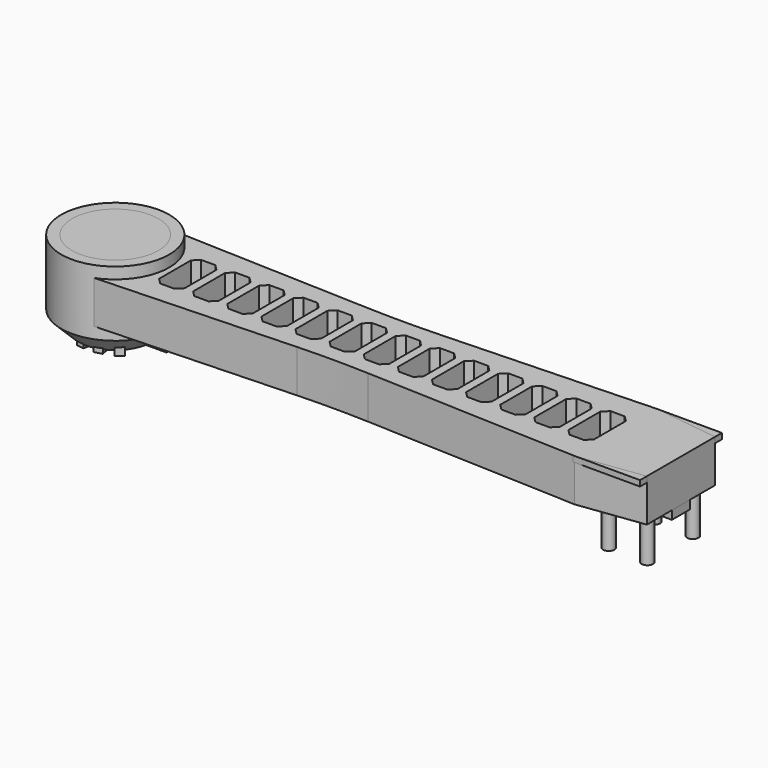
from build123d import *

# Parameters (mm, degrees)
CYLINDER_R          = 19
CYLINDER_DEPTH      = 29
CHAMFER_SIZE        = 6
CYLINDER001_R       = 15.2
CYLINDER001_DEPTH   = 22
BOX001_W            = 23.5
BOX001_H            = 36
BOX001_DEPTH        = 2
CYLINDER002_R       = 5
CYLINDER002_DEPTH   = 10
PAD003_DEPTH        = 40
BOX002_W            = 199
BOX002_H            = 8
BOX002_DEPTH        = 8.5
SKETCH002_R         = 3.000774
SKETCH002_R_2       = 3
PAD_DEPTH           = 2
PAD002_DEPTH        = 10
SKETCH001_R         = 1.502004
SKETCH001_R_2       = 1.451029
PAD001_DEPTH        = 10
SKETCH005_R         = 2
PAD005_DEPTH        = 30
CYLINDER003_R       = 1.5
CYLINDER003_DEPTH   = 10
PAD004_DEPTH        = 15
POCKET_DEPTH        = 8
LINEARPATTERN_COUNT = 13
LINEARPATTERN_PITCH = 12


with BuildPart() as chamfer_body:
    # Cylinder → Cylinder (new body)
    with BuildSketch(Plane(origin=(0, 18, -10), x_dir=(1, 0, 0), z_dir=(0, 0, 1))):
        Circle(CYLINDER_R)
    extrude(amount=CYLINDER_DEPTH)

    # Chamfer
    chamfer_edges = [chamfer_body.edges().sort_by_distance(p)[0] for p in [
        (-19, 18, -10),
    ]]
    chamfer(chamfer_edges, length=CHAMFER_SIZE)


with BuildPart() as cylinder001:
    # Cylinder001 → Cylinder001 (new body)
    with BuildSketch(Plane(origin=(0, 18, -3), x_dir=(1, 0, 0), z_dir=(0, 0, 1))):
        Circle(CYLINDER001_R)
    extrude(amount=CYLINDER001_DEPTH)


with BuildPart() as cube001:
    # Box001 → Box001 (new body)
    with BuildSketch(Plane(origin=(175.5, 0, 13), x_dir=(1, 0, 0), z_dir=(0, 0, 1))):
        with Locations((11.75, 18)):
            Rectangle(BOX001_W, BOX001_H)
    extrude(amount=BOX001_DEPTH)


with BuildPart() as cylinder002:
    # Cylinder002 → Cylinder002 (new body)
    with BuildSketch(Plane(origin=(0, 18, -5), x_dir=(1, 0, 0), z_dir=(0, 0, 1))):
        Circle(CYLINDER002_R)
    extrude(amount=CYLINDER002_DEPTH)


with BuildPart() as pad003:
    # Sketch → Pad003 (new body)
    with BuildSketch(Plane(origin=(-20, 29.5, -6), x_dir=(0, -1, 0), z_dir=(-1, 0, 0))):
        Polygon((7, 1), (16, 1), (16, -1), (14, -2), (14, -4), (9, -4), (9, -2), (7, -1), align=None)
    extrude(amount=-PAD003_DEPTH)


with BuildPart() as cube002:
    # Box002 → Box002 (new body)
    with BuildSketch(Plane(origin=(0, 14, -3), x_dir=(1, 0, 0), z_dir=(0, 0, 1))):
        with Locations((99.5, 4)):
            Rectangle(BOX002_W, BOX002_H)
    extrude(amount=BOX002_DEPTH)


with BuildPart() as pad:
    # Sketch002 → Pad (new body)
    with BuildSketch(Plane(origin=(0, 0, -10), x_dir=(1, 0, 0), z_dir=(0, 0, -1))):
        with Locations((-7, -11.493315)):
            Circle(SKETCH002_R)
        with Locations((7, -24.511189)):
            Circle(SKETCH002_R_2)
    extrude(amount=-PAD_DEPTH)


with BuildPart() as pad002:
    # Sketch003 → Pad002 (new body)
    with BuildSketch(Plane.XY.offset(-11)):
        Polygon((-3, 5), (-0.487519, 4.71382), (0.310489, 10.698878), (-1.969301, 11.158109), align=None)
        Polygon((3, 4.71382), (5.697039, 5.471929), (4.460128, 11), (2.225708, 10.379674), align=None)
        Polygon((8.928973, 6.58914), (11.199503, 8.319204), (7.771865, 12.678307), (5.736944, 11.441395), align=None)
        Polygon((3, 32), (0.509665, 32.336639), (-0.288343, 26.670786), (2.305181, 26.231882), align=None)
        Polygon((-2.837909, 32), (-5.312378, 31.473824), (-3.557683, 26.214495), (-1.636838, 26.750586), align=None)
        Polygon((-7.789613, 30.009914), (-10.053051, 28.648418), (-7.020621, 24.084783), (-5.1995, 25.461271), align=None)
    extrude(amount=PAD002_DEPTH)


with BuildPart() as pad001:
    # Sketch001 → Pad001 (new body)
    with BuildSketch(Plane(origin=(0, 0, -10), x_dir=(1, 0, 0), z_dir=(0, 0, -1))):
        with Locations((-7, -11.493349)):
            Circle(SKETCH001_R)
        with Locations((7, -24.511223)):
            Circle(SKETCH001_R_2)
    extrude(amount=-PAD001_DEPTH)


with BuildPart() as pad005:
    # Sketch005 → Pad005 (new body)
    with BuildSketch(Plane(origin=(-6.25, 4, -15), x_dir=(1, 0, 0), z_dir=(0, 0, 1))):
        with Locations((201.226852, 4.248305)):
            Circle(SKETCH005_R)
        with Locations((201.226486, 24.244774)):
            Circle(SKETCH005_R)
        with Locations((187.638336, 4.252245)):
            Circle(SKETCH005_R)
        with Locations((187.63829, 24.237858)):
            Circle(SKETCH005_R)
    extrude(amount=PAD005_DEPTH)


with BuildPart() as fusion:
    # Cylinder003 → Cylinder003 (new body)
    with BuildSketch(Plane(origin=(-13, 18, -11), x_dir=(1, 0, 0), z_dir=(0, 0, 1))):
        Circle(CYLINDER003_R)
    extrude(amount=CYLINDER003_DEPTH)

    # Fusion: union Cylinder001, Cube001, Cylinder002, Pad003, Cube002, Pad, Pad002, Pad001, Pad005
    add(cylinder001.part)
    add(cube001.part)
    add(cylinder002.part)
    add(pad003.part)
    add(cube002.part)
    add(pad.part)
    add(pad002.part)
    add(pad001.part)
    add(pad005.part)


with BuildPart() as linearpattern:
    # Sketch004 → Pad004 (new body)
    with BuildSketch(Plane.XY):
        with BuildLine():
            Line((0, 0), (76, 3))
            ThreePointArc((100.839849, 2.995305), (88.419971, 3.243861), (76, 3))
            Line((100.839849, 2.995305), (176, 0))
            Line((176, 0), (199, 3))
            Line((199, 3), (199, 33))
            Line((199, 33), (176, 36))
            Line((176, 36), (101.284065, 33.216912))
            ThreePointArc((77.035092, 33.205178), (89.159687, 32.988246), (101.284065, 33.216912))
            Line((77.035092, 33.205178), (0, 36))
            Line((0, 36), (0, 0))
        make_face()
    extrude(amount=PAD004_DEPTH)

    # Sketch006 → Pocket (cut)
    with BuildSketch(Plane.XY.offset(15)):
        Polygon((21, 18), (21, 25), (23, 27), (28, 27), (30, 25), (30, 18), (30, 11), (28, 9), (23, 9), (21, 11), align=None)
    pocket = extrude(amount=-POCKET_DEPTH, mode=Mode.SUBTRACT)

    # LinearPattern: Pocket ×13
    with Locations(*[(i * LINEARPATTERN_PITCH, 0, 0) for i in range(1, LINEARPATTERN_COUNT)]):
        add(pocket, mode=Mode.SUBTRACT)


solid = Compound([chamfer_body.part, fusion.part, linearpattern.part])
